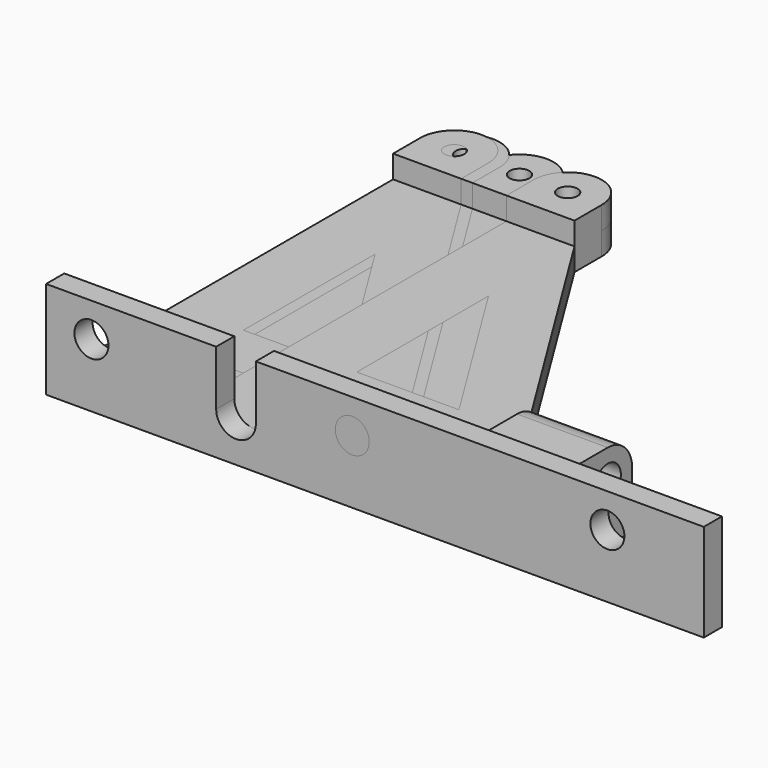
from build123d import *

# Parameters (mm, degrees)
SKETCH_W        = 11.75
SKETCH_H        = 6
PAD_DEPTH       = 2
SKETCH001_W     = 6.25
SKETCH001_H     = 6
PAD001_DEPTH    = 2
POCKET_DEPTH    = 2.001
SKETCH002_R     = 0.875
POCKET001_DEPTH = 4.001
SKETCH003_W     = 58
SKETCH003_H     = 2
PAD002_DEPTH    = 6.6
SKETCH004_R     = 1.5
POCKET002_DEPTH = 43.001
SKETCH012_W     = 8
SKETCH012_H     = 7.6
PAD006_DEPTH    = 7.3
SKETCH013_R     = 1.45
POCKET008_DEPTH = 21.751
SKETCH006_W     = 11.75
SKETCH006_H     = 6
PAD003_DEPTH    = 2
SKETCH007_W     = 6.25
SKETCH007_H     = 6
PAD004_DEPTH    = 2
POCKET004_DEPTH = 2.001
SKETCH008_R     = 0.875
POCKET005_DEPTH = 4.001
SKETCH009_W     = 58
SKETCH009_H     = 2
PAD005_DEPTH    = 6.6
SKETCH010_R     = 1.5
POCKET006_DEPTH = 43.001
SKETCH011_R     = 3
POCKET007_DEPTH = 41.001
SKETCH014_W     = 11.75
SKETCH014_H     = 6
PAD007_DEPTH    = 2
SKETCH015_W     = 6.25
SKETCH015_H     = 6
PAD008_DEPTH    = 2
POCKET009_DEPTH = 2.001
SKETCH016_R     = 0.875
POCKET010_DEPTH = 4.001
SKETCH017_W     = 58
SKETCH017_H     = 2
PAD009_DEPTH    = 6.6
SKETCH018_R     = 1.5
POCKET011_DEPTH = 43.001
SKETCH019_R     = 3
POCKET012_DEPTH = 41.001
SKETCH020_W     = 25
SKETCH020_H     = 8.6
POCKET013_DEPTH = 2.001
SKETCH021_W     = 11.75
SKETCH021_H     = 6
PAD010_DEPTH    = 2
SKETCH022_W     = 6.25
SKETCH022_H     = 6
PAD011_DEPTH    = 2
POCKET014_DEPTH = 2.001
SKETCH023_R     = 0.875
POCKET015_DEPTH = 4.001
SKETCH024_W     = 58
SKETCH024_H     = 2
PAD012_DEPTH    = 6.6
SKETCH025_R     = 1.5
POCKET016_DEPTH = 5
SKETCH026_R     = 3
POCKET017_DEPTH = 41.001


with BuildPart() as original:
    # Sketch → Pad (new body)
    with BuildSketch(Plane.XY):
        Polygon((0, 0), (0, 2), (6.75, 2), (6.75, 43), (12.75, 43), (12.75, 37), (30.75, 8), (30.75, 2), (58, 2), (58, 0), align=None)
        with Locations((18.625, 5)):
            Rectangle(SKETCH_W, SKETCH_H, mode=Mode.SUBTRACT)
        Polygon((12.75, 13), (12.75, 27.518862), (21.761708, 13), align=None, mode=Mode.SUBTRACT)
    extrude(amount=PAD_DEPTH)

    # Sketch001 (on Face19 of Pad) → Pad001 (join)
    with BuildSketch(Plane.XY.offset(2)):
        with BuildLine():
            Line((12.75, 37), (6.75, 37))
            Line((6.75, 37), (6.75, 39.99998))
            ThreePointArc((12.75, 40), (9.74999, 43), (6.75, 39.99998))
            Line((12.75, 37), (12.75, 40))
        make_face()
        with Locations((27.625, 5)):
            Rectangle(SKETCH001_W, SKETCH001_H)
    extrude(amount=PAD001_DEPTH)

    # ShapeBinder → Pocket (cut, through all)
    with BuildSketch(Plane(origin=(12.079896, 42.329896, 2), x_dir=(0, 1, 0), z_dir=(0, 0, 1))):
        with BuildLine():
            ThreePointArc((0.670104, 2.329896), (-0.208576, 0.208576), (-2.329896, -0.670104))
            Line((-2.329896, -0.670104), (0.670104, -0.670104))
            Line((0.670104, -0.670104), (0.670104, 2.329896))
        make_face()
        with BuildLine():
            ThreePointArc((-2.329917, 5.329896), (-0.208583, 4.451224), (0.670104, 2.329896))
            Line((0.670104, 2.329896), (0.670104, 5.329896))
            Line((0.670104, 5.329896), (-2.329917, 5.329896))
        make_face()
    extrude(amount=-POCKET_DEPTH, mode=Mode.SUBTRACT)

    # Sketch002 (on Face23 of Pocket) → Pocket001 (cut, through all)
    with BuildSketch(Plane.XY.offset(4)):
        with Locations((9.75, 40)):
            Circle(SKETCH002_R)
        with Locations((27.625, 5)):
            Circle(SKETCH002_R)
    extrude(amount=-POCKET001_DEPTH, mode=Mode.SUBTRACT)

    # Sketch003 (on Face5 of Pocket001) → Pad002 (join)
    with BuildSketch(Plane.XY.offset(2)):
        with Locations((29, 1)):
            Rectangle(SKETCH003_W, SKETCH003_H)
    extrude(amount=PAD002_DEPTH)

    # Sketch004 (on Face23 of Pad002) → Pocket002 (cut, through all)
    with BuildSketch(Plane.XZ):
        with Locations((4, 5.6)):
            Circle(SKETCH004_R)
        with Locations((49.5, 5.6)):
            Circle(SKETCH004_R)
        with BuildLine():
            Line((15, 8.6), (18.5, 8.6))
            Line((18.5, 8.6), (18.5, 3.75))
            ThreePointArc((15, 3.75), (16.75, 2), (18.5, 3.75))
            Line((15, 8.6), (15, 3.75))
        make_face()
    extrude(amount=-POCKET002_DEPTH, mode=Mode.SUBTRACT)

    # Sketch012 (on Face6 of Pocket002) → Pad006 (join)
    with BuildSketch(Plane(origin=(0, 2, 0), x_dir=(-1, 0, 0), z_dir=(0, 1, 0))):
        with Locations((-40.25, 3.8)):
            Rectangle(SKETCH012_W, SKETCH012_H)
    extrude(amount=PAD006_DEPTH)

    # Sketch013 (on Face20 of Pad006) → Pocket008 (cut, through all)
    with BuildSketch(Plane(origin=(36.25, 0, 0), x_dir=(0, -1, 0), z_dir=(-1, 0, 0))):
        with Locations((-6.6, 4.9)):
            Circle(SKETCH013_R)
        with BuildLine():
            ThreePointArc((-6.600004, 7.6), (-8.509189, 6.809188), (-9.3, 4.900002))
            Line((-9.3, 4.900002), (-9.3, 7.6))
            Line((-9.3, 7.6), (-6.600004, 7.6))
        make_face()
    extrude(amount=-POCKET008_DEPTH, mode=Mode.SUBTRACT)


with BuildPart() as no_holder:
    # Sketch006 → Pad003 (new body)
    with BuildSketch(Plane.XY):
        Polygon((0, 0), (0, 2), (2, 2), (2, 43), (8, 43), (8, 37), (26, 8), (26, 2), (58, 2), (58, 0), align=None)
        with Locations((13.875, 5)):
            Rectangle(SKETCH006_W, SKETCH006_H, mode=Mode.SUBTRACT)
        Polygon((8, 13), (8, 27.518862), (17.011708, 13), align=None, mode=Mode.SUBTRACT)
    extrude(amount=PAD003_DEPTH)

    # Sketch007 (on Face19 of Pad003) → Pad004 (join)
    with BuildSketch(Plane.XY.offset(2)):
        with BuildLine():
            Line((8, 37), (2, 37))
            Line((2, 37), (2, 40.000024))
            ThreePointArc((8, 40), (5.000012, 43), (2, 40.000024))
            Line((8, 37), (8, 40))
        make_face()
        with Locations((22.875, 5)):
            Rectangle(SKETCH007_W, SKETCH007_H)
    extrude(amount=PAD004_DEPTH)

    # ShapeBinder001 → Pocket004 (cut, through all)
    with BuildSketch(Plane(origin=(7.329896, 42.329896, 2), x_dir=(0, 1, 0), z_dir=(0, 0, 1))):
        with BuildLine():
            ThreePointArc((0.670104, 2.329896), (-0.208576, 0.208576), (-2.329896, -0.670104))
            Line((-2.329896, -0.670104), (0.670104, -0.670104))
            Line((0.670104, -0.670104), (0.670104, 2.329896))
        make_face()
        with BuildLine():
            ThreePointArc((-2.329872, 5.329896), (-0.208567, 4.451208), (0.670104, 2.329896))
            Line((0.670104, 2.329896), (0.670104, 5.329896))
            Line((0.670104, 5.329896), (-2.329872, 5.329896))
        make_face()
    extrude(amount=-POCKET004_DEPTH, mode=Mode.SUBTRACT)

    # Sketch008 (on Face23 of Pocket004) → Pocket005 (cut, through all)
    with BuildSketch(Plane.XY.offset(4)):
        with Locations((5, 40)):
            Circle(SKETCH008_R)
        with Locations((22.875, 5)):
            Circle(SKETCH008_R)
    extrude(amount=-POCKET005_DEPTH, mode=Mode.SUBTRACT)

    # Sketch009 (on Face5 of Pocket005) → Pad005 (join)
    with BuildSketch(Plane.XY.offset(2)):
        with Locations((29, 1)):
            Rectangle(SKETCH009_W, SKETCH009_H)
    extrude(amount=PAD005_DEPTH)

    # Sketch010 (on Face23 of Pad005) → Pocket006 (cut, through all)
    with BuildSketch(Plane.XZ):
        with Locations((4, 5.6)):
            Circle(SKETCH010_R)
        with Locations((49.5, 5.6)):
            Circle(SKETCH010_R)
        with Locations((27, 5.6)):
            Circle(SKETCH010_R)
        with BuildLine():
            Line((15, 8.6), (18.5, 8.6))
            Line((18.5, 8.6), (18.5, 3.75))
            ThreePointArc((15, 3.75), (16.75, 2), (18.5, 3.75))
            Line((15, 8.6), (15, 3.75))
        make_face()
    extrude(amount=-POCKET006_DEPTH, mode=Mode.SUBTRACT)

    # Sketch011 (on Face6 of Pocket006) → Pocket007 (cut, through all)
    with BuildSketch(Plane(origin=(0, 2, 0), x_dir=(-1, 0, 0), z_dir=(0, 1, 0))):
        with Locations((-27, 5.6)):
            Circle(SKETCH011_R)
    extrude(amount=POCKET007_DEPTH, mode=Mode.SUBTRACT)


with BuildPart() as obj1:
    # Sketch014 → Pad007 (new body)
    with BuildSketch(Plane.XY):
        Polygon((0, 0), (0, 2), (1, 2), (1, 43), (7, 43), (7, 37), (25, 8), (25, 2), (58, 2), (58, 0), align=None)
        with Locations((12.875, 5)):
            Rectangle(SKETCH014_W, SKETCH014_H, mode=Mode.SUBTRACT)
        Polygon((7, 13), (7, 27.518862), (16.011708, 13), align=None, mode=Mode.SUBTRACT)
    extrude(amount=PAD007_DEPTH)

    # Sketch015 (on Face19 of Pad007) → Pad008 (join)
    with BuildSketch(Plane.XY.offset(2)):
        with BuildLine():
            Line((7, 37), (1, 37))
            Line((1, 37), (1, 40.000014))
            ThreePointArc((7, 40), (4.000007, 43), (1, 40.000014))
            Line((7, 37), (7, 40))
        make_face()
        with Locations((21.875, 5)):
            Rectangle(SKETCH015_W, SKETCH015_H)
    extrude(amount=PAD008_DEPTH)

    # ShapeBinder002 → Pocket009 (cut, through all)
    with BuildSketch(Plane(origin=(6.329896, 42.329896, 2), x_dir=(0, 1, 0), z_dir=(0, 0, 1))):
        with BuildLine():
            ThreePointArc((0.670104, 2.329896), (-0.208576, 0.208576), (-2.329896, -0.670104))
            Line((-2.329896, -0.670104), (0.670104, -0.670104))
            Line((0.670104, -0.670104), (0.670104, 2.329896))
        make_face()
        with BuildLine():
            ThreePointArc((-2.329882, 5.329896), (-0.208571, 4.451212), (0.670104, 2.329896))
            Line((0.670104, 2.329896), (0.670104, 5.329896))
            Line((0.670104, 5.329896), (-2.329882, 5.329896))
        make_face()
    extrude(amount=-POCKET009_DEPTH, mode=Mode.SUBTRACT)

    # Sketch016 (on Face23 of Pocket009) → Pocket010 (cut, through all)
    with BuildSketch(Plane.XY.offset(4)):
        with Locations((4, 40)):
            Circle(SKETCH016_R)
        with Locations((21.875, 5)):
            Circle(SKETCH016_R)
    extrude(amount=-POCKET010_DEPTH, mode=Mode.SUBTRACT)

    # Sketch017 (on Face5 of Pocket010) → Pad009 (join)
    with BuildSketch(Plane.XY.offset(2)):
        with Locations((29, 1)):
            Rectangle(SKETCH017_W, SKETCH017_H)
    extrude(amount=PAD009_DEPTH)

    # Sketch018 (on Face23 of Pad009) → Pocket011 (cut, through all)
    with BuildSketch(Plane.XZ):
        with Locations((4, 5.6)):
            Circle(SKETCH018_R)
        with Locations((49.5, 5.6)):
            Circle(SKETCH018_R)
        with Locations((27, 5.6)):
            Circle(SKETCH018_R)
        with BuildLine():
            Line((15, 8.6), (18.5, 8.6))
            Line((18.5, 8.6), (18.5, 3.75))
            ThreePointArc((15, 3.75), (16.75, 2), (18.5, 3.75))
            Line((15, 8.6), (15, 3.75))
        make_face()
    extrude(amount=-POCKET011_DEPTH, mode=Mode.SUBTRACT)

    # Sketch019 (on Face6 of Pocket011) → Pocket012 (cut, through all)
    with BuildSketch(Plane(origin=(0, 2, 0), x_dir=(-1, 0, 0), z_dir=(0, 1, 0))):
        with Locations((-27, 5.6)):
            Circle(SKETCH019_R)
    extrude(amount=POCKET012_DEPTH, mode=Mode.SUBTRACT)

    # Sketch020 (on Face32 of Pocket012) → Pocket013 (cut, through all)
    with BuildSketch(Plane(origin=(0, 2, 0), x_dir=(-1, 0, 0), z_dir=(0, 1, 0))):
        with Locations((-45.5, 4.3)):
            Rectangle(SKETCH020_W, SKETCH020_H)
    extrude(amount=-POCKET013_DEPTH, mode=Mode.SUBTRACT)


with BuildPart() as sd_io:
    # Sketch021 → Pad010 (new body)
    with BuildSketch(Plane.XY):
        Polygon((0, 0), (0, 2), (11, 2), (11, 43), (17, 43), (17, 37), (35, 8), (35, 2), (58, 2), (58, 0), align=None)
        with Locations((22.875, 5)):
            Rectangle(SKETCH021_W, SKETCH021_H, mode=Mode.SUBTRACT)
        Polygon((17, 13), (17, 27.518862), (26.011708, 13), align=None, mode=Mode.SUBTRACT)
    extrude(amount=PAD010_DEPTH)

    # Sketch022 (on Face19 of Pad010) → Pad011 (join)
    with BuildSketch(Plane.XY.offset(2)):
        with BuildLine():
            Line((17, 37), (11, 37))
            Line((11, 37), (11, 39.999969))
            ThreePointArc((17, 40), (13.999984, 43), (11, 39.999969))
            Line((17, 37), (17, 40))
        make_face()
        with Locations((31.875, 5)):
            Rectangle(SKETCH022_W, SKETCH022_H)
    extrude(amount=PAD011_DEPTH)

    # ShapeBinder003 → Pocket014 (cut, through all)
    with BuildSketch(Plane(origin=(16.329896, 42.329896, 2), x_dir=(0, 1, 0), z_dir=(0, 0, 1))):
        with BuildLine():
            ThreePointArc((0.670104, 2.329896), (-0.208576, 0.208576), (-2.329896, -0.670104))
            Line((-2.329896, -0.670104), (0.670104, -0.670104))
            Line((0.670104, -0.670104), (0.670104, 2.329896))
        make_face()
        with BuildLine():
            ThreePointArc((-2.329927, 5.329896), (-0.208587, 4.451227), (0.670104, 2.329896))
            Line((0.670104, 2.329896), (0.670104, 5.329896))
            Line((0.670104, 5.329896), (-2.329927, 5.329896))
        make_face()
    extrude(amount=-POCKET014_DEPTH, mode=Mode.SUBTRACT)

    # Sketch023 (on Face23 of Pocket014) → Pocket015 (cut, through all)
    with BuildSketch(Plane.XY.offset(4)):
        with Locations((14, 40)):
            Circle(SKETCH023_R)
        with Locations((31.875, 5)):
            Circle(SKETCH023_R)
    extrude(amount=-POCKET015_DEPTH, mode=Mode.SUBTRACT)

    # Sketch024 (on Face5 of Pocket015) → Pad012 (join)
    with BuildSketch(Plane.XY.offset(2)):
        with Locations((29, 1)):
            Rectangle(SKETCH024_W, SKETCH024_H)
    extrude(amount=PAD012_DEPTH)

    # Sketch025 (on Face23 of Pad012) → Pocket016 (cut)
    with BuildSketch(Plane.XZ):
        with Locations((4, 5.6)):
            Circle(SKETCH025_R)
        with Locations((49.5, 5.6)):
            Circle(SKETCH025_R)
        with Locations((27, 5.6)):
            Circle(SKETCH025_R)
        with BuildLine():
            Line((15, 8.6), (18.5, 8.6))
            Line((18.5, 8.6), (18.5, 3.75))
            ThreePointArc((15, 3.75), (16.75, 2), (18.5, 3.75))
            Line((15, 8.6), (15, 3.75))
        make_face()
    extrude(amount=-POCKET016_DEPTH, mode=Mode.SUBTRACT)

    # Sketch026 (on Face6 of Pocket016) → Pocket017 (cut, through all)
    with BuildSketch(Plane(origin=(0, 2, 0), x_dir=(-1, 0, 0), z_dir=(0, 1, 0))):
        with Locations((-27, 5.6)):
            Circle(SKETCH026_R)
    extrude(amount=POCKET017_DEPTH, mode=Mode.SUBTRACT)


solid = Compound([original.part, no_holder.part, obj1.part, sd_io.part])
